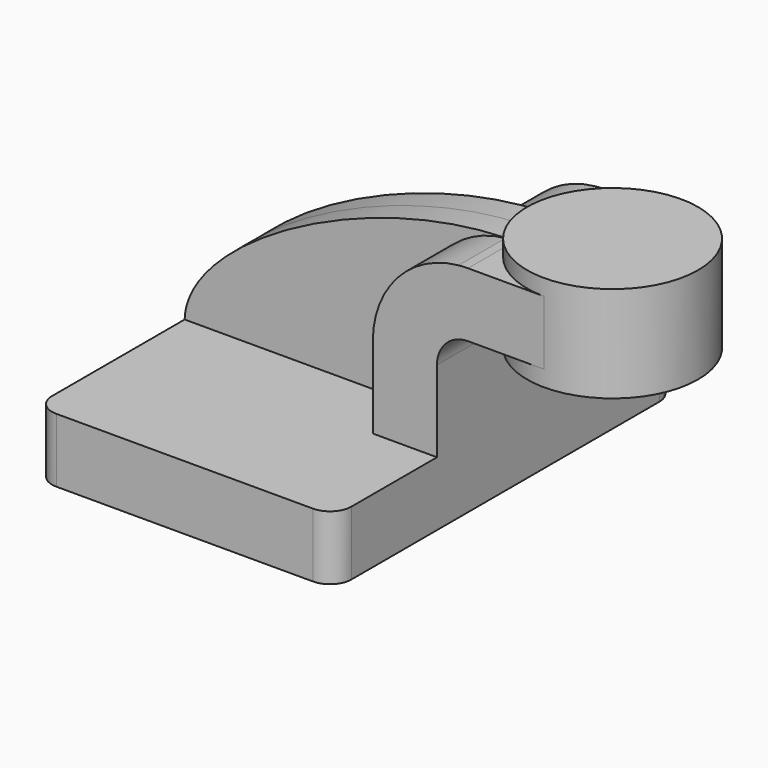
from build123d import *

# Parameters (mm, degrees)
F1_DEPTH = 63.5
F2_DEPTH = 25.4
F3_DEPTH = 7.9375
F4_R     = 6.35


with BuildPart() as f1:
    # F0 (on Front) → F1 (new body, symmetric)
    with BuildSketch(Plane.XZ):
        Polygon((25.4, 9.525), (-44.45, 9.525), (-44.45, -9.525), (44.45, -9.525), (44.45, 9.525), align=None)
    extrude(amount=F1_DEPTH, both=True)

    # F0 (on Front) → F2 (join, symmetric)
    with BuildSketch(Plane.XZ):
        with BuildLine():
            Line((25.4, 33.639258), (25.4, 9.525))
            Line((25.4, 9.525), (44.45, 9.525))
            Line((44.45, 9.525), (44.45, 33.639258))
            ThreePointArc((44.45, 33.639258), (46.225144, 39.083439), (50.868211, 42.434883))
            Line((50.868211, 42.434883), (50.868211, 61.784505))
            ThreePointArc((50.868211, 61.784505), (32.712188, 52.618093), (25.4, 33.639258))
        make_face()
        with BuildLine():
            Line((76.268211, 61.9252), (53.685942, 61.9252))
            ThreePointArc((53.685942, 61.9252), (52.275321, 61.890004), (50.868211, 61.784505))
            Line((50.868211, 61.784505), (50.868211, 42.434883))
            ThreePointArc((50.868211, 42.434883), (52.259979, 42.764457), (53.685942, 42.8752))
            Line((53.685942, 42.8752), (76.268211, 42.8752))
            Line((76.268211, 42.8752), (76.268211, 61.9252))
        make_face()
    extrude(amount=F2_DEPTH, both=True)

    # F0 (on Front) → F3 (join, symmetric)
    with BuildSketch(Plane.XZ):
        with BuildLine():
            add(Edge.make_bspline(
                [(-44.45, 9.525), (-43.859255, 31.624661), (7.442502, 60.631286), (50.868211, 61.883257)],
                knots=[0, 0, 0, 0, 108.884613, 108.884613, 108.884613, 108.884613], degree=3))
            Line((-44.45, 9.525), (25.4, 9.525))
            Line((25.4, 9.525), (25.4, 33.639258))
            ThreePointArc((25.4, 33.639258), (32.712188, 52.618093), (50.868211, 61.784505))
            Line((50.868211, 61.784505), (50.868211, 61.883257))
        make_face()
    extrude(amount=F3_DEPTH, both=True)

    # F4
    f4_edges = [f1.edges().sort_by_distance(p)[0] for p in [
        (-44.45, -63.5, 0),
        (44.45, -63.5, 0),
        (44.45, 63.5, 0),
        (-44.45, 63.5, 0),
    ]]
    fillet(f4_edges, radius=F4_R)


with BuildPart() as f5:
    # F0 (on Front) → F5 (revolve)
    with BuildSketch(Plane.XZ):
        Polygon((101.668211, 66.714026), (76.268211, 66.714026), (76.268211, 61.9252), (76.268211, 42.8752), (76.268211, 38.139026), (101.668211, 38.139026), align=None)
    revolve(axis=Axis((76.268211, 0, 52.426526), (0, 0, 1)))


solid = Compound([f1.part, f5.part])
